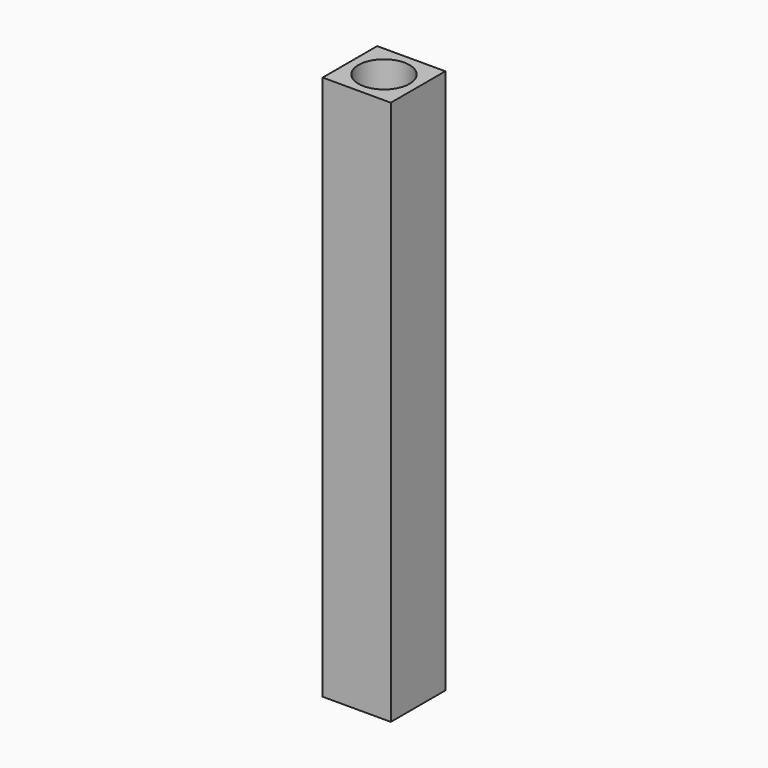
from build123d import *

# Parameters (mm, degrees)
F0_W      = 10
F0_H      = 10
F0_R      = 3.75
F1_DEPTH  = 70
F1_FACE_W = 10
F1_FACE_H = 10
F1_FACE_R = 3.75
F2_DEPTH  = 10


with BuildPart() as f1:
    # F0 (on Top) → F1 (new body)
    with BuildSketch(Plane.XY):
        Rectangle(F0_W, F0_H)
        Circle(F0_R, mode=Mode.SUBTRACT)
    extrude(amount=F1_DEPTH)

    # F1_face (on face) → F2 (join)
    with BuildSketch(Plane.XY.offset(70)):
        Rectangle(F1_FACE_W, F1_FACE_H)
        Circle(F1_FACE_R, mode=Mode.SUBTRACT)
    extrude(amount=F2_DEPTH)


solid = f1.part
